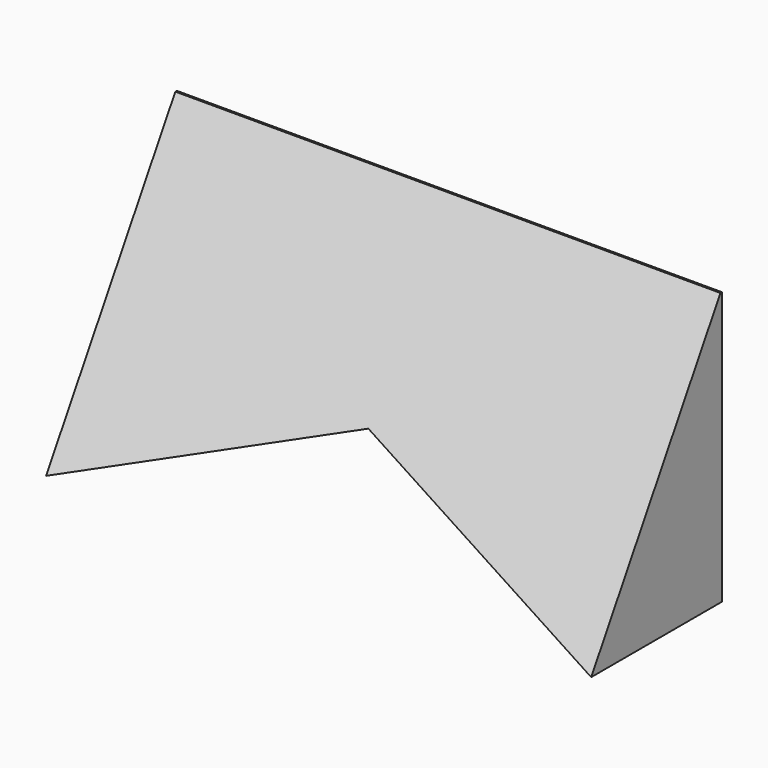
from build123d import *

# Parameters (mm, degrees)
F1_DEPTH      = 38.1
F3_DEPTH      = 208.534
F3_DEPTH_BACK = 250.19


with BuildPart() as f1:
    # F0 (on Front) → F1 (new body)
    with BuildSketch(Plane.XZ):
        Polygon((-4.243139, 39.056126), (-67.743139, 39.056126), (-67.743139, -24.443874), (-4.243139, 0), (59.256861, -24.443874), (59.256861, 39.056126), align=None)
    extrude(amount=F1_DEPTH)

    # F2 (on Right) → F3 (cut, two sides)
    with BuildSketch(Plane.YZ) as f3_sk:
        Polygon((0, 39.786395), (-38.183279, 39.786395), (-38.183279, -24.629673), align=None)
    extrude(amount=F3_DEPTH, mode=Mode.SUBTRACT)
    extrude(f3_sk.sketch, amount=-F3_DEPTH_BACK, mode=Mode.SUBTRACT)


solid = f1.part
